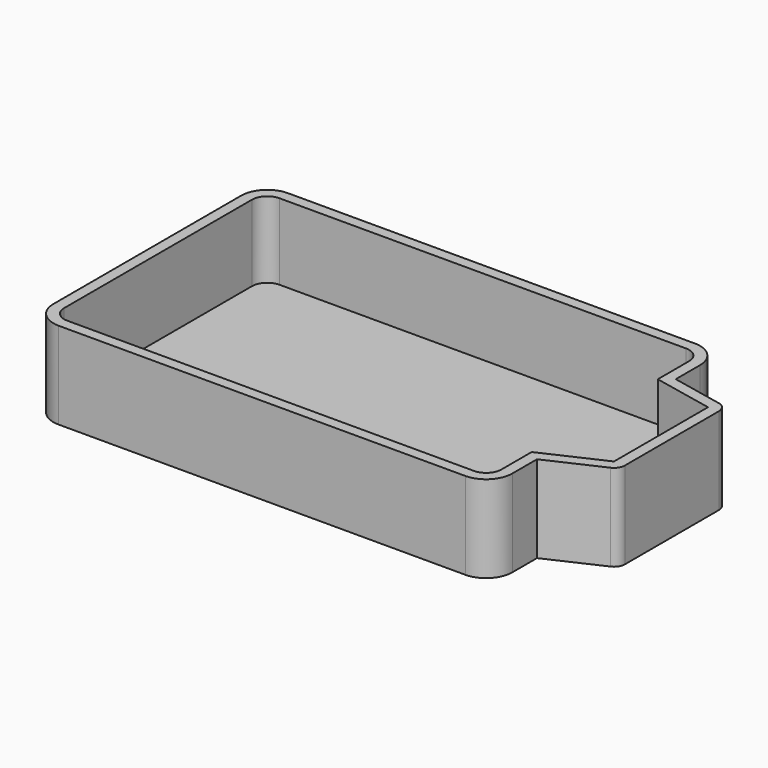
from build123d import *

# Parameters (mm, degrees)
EXTRUDE_DEPTH    = 40
EXTRUDE001_DEPTH = 40


with BuildPart() as extrude_body:
    # Sketch → Extrude (new body)
    with BuildSketch(Plane.XY):
        with BuildLine():
            Line((-92.929424, 60.081154), (93.998491, 60.081154))
            ThreePointArc((100.998491, 53.081154), (98.948238, 58.030901), (93.998491, 60.081154))
            Line((100.998491, 53.081154), (100.998491, 35.048241))
            Line((100.998491, 35.048241), (128.657806, 29.335068))
            Line((128.657806, 29.335068), (128.657806, -24.680387))
            Line((128.657806, -24.680387), (100.998491, -37.405182))
            Line((100.998491, -37.405182), (100.998491, -54.803909))
            ThreePointArc((93.998491, -61.803909), (98.948238, -59.753656), (100.998491, -54.803909))
            Line((93.998491, -61.803909), (-92.929424, -61.803909))
            ThreePointArc((-99.929424, -54.803909), (-97.879172, -59.753656), (-92.929424, -61.803909))
            Line((-99.929424, -54.803909), (-99.929424, 53.081154))
            ThreePointArc((-92.929424, 60.081154), (-97.879172, 58.030901), (-99.929424, 53.081154))
        make_face()
    extrude(amount=EXTRUDE_DEPTH)


with BuildPart() as extrude_body_1:
    # Extrude placement: moved
    add(extrude_body.part.moved(Location((0, 0, 5))))


with BuildPart() as bottom:
    # Offset2D → Extrude001 (new body)
    with BuildSketch(Plane(origin=(14.364191, -0.861378, 0), x_dir=(0, 1, 0), z_dir=(0, 0, 1))):
        with BuildLine():
            Line((53.942531, 119.293615), (-53.942531, 119.293615))
            ThreePointArc((-53.942531, 119.293615), (-62.427812, 115.778897), (-65.942531, 107.293615))
            Line((-65.942531, 107.293615), (-65.942531, -79.6343))
            ThreePointArc((-65.942531, -79.6343), (-62.427812, -88.119581), (-53.942531, -91.6343))
            Line((-53.942531, -91.6343), (-39.74728, -91.6343))
            Line((-39.74728, -91.6343), (-28.361368, -116.383348))
            ThreePointArc((-28.361368, -116.383348), (-26.516354, -118.503643), (-23.819009, -119.293615))
            Line((-23.819009, -119.293615), (30.196446, -119.293615))
            ThreePointArc((30.196446, -119.293615), (33.354204, -118.170284), (35.093079, -115.30504))
            Line((35.093079, -115.30504), (39.982392, -91.6343))
            Line((39.982392, -91.6343), (53.942531, -91.6343))
            ThreePointArc((53.942531, -91.6343), (62.427812, -88.119581), (65.942531, -79.6343))
            Line((65.942531, -79.6343), (65.942531, 107.293615))
            ThreePointArc((65.942531, 107.293615), (62.427812, 115.778897), (53.942531, 119.293615))
        make_face()
    extrude(amount=EXTRUDE001_DEPTH)

    # Cut: cut Extrude body
    add(extrude_body_1.part, mode=Mode.SUBTRACT)


solid = bottom.part
